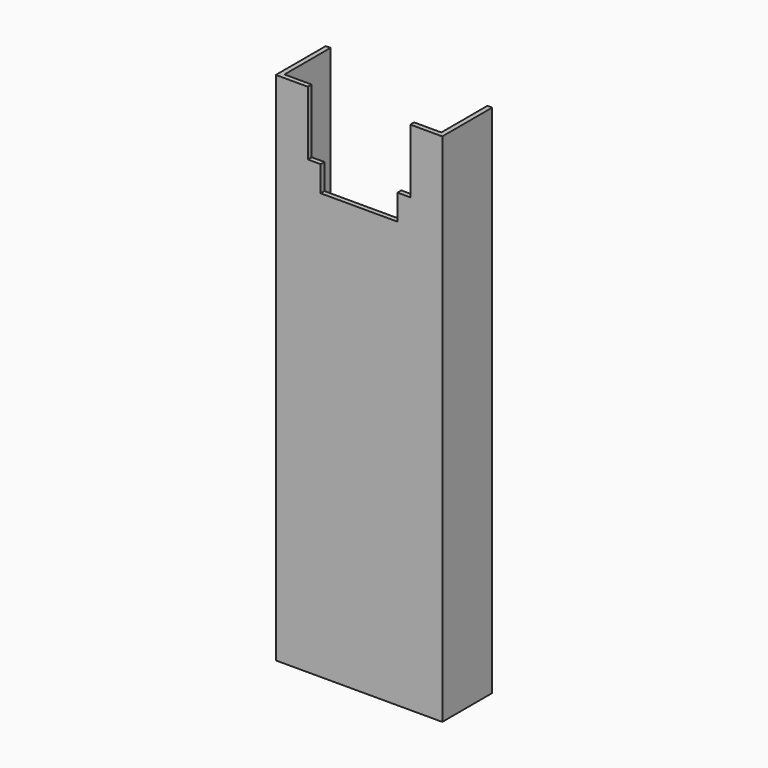
from build123d import *

# Parameters (mm, degrees)
F1_DEPTH = 1022.35
F3_DEPTH = 25.4


with BuildPart() as f1:
    # F0 (on Top) → F1 (new body, symmetric)
    with BuildSketch(Plane.XY):
        Polygon((311.15, 247.65), (311.15, 19.05), (-311.15, 19.05), (-311.15, 247.65), (-330.2, 247.65), (-330.2, 0), (330.2, 0), (330.2, 247.65), align=None)
    extrude(amount=F1_DEPTH, both=True)

    # F2 (on face) → F3 (cut)
    with BuildSketch(Plane.XZ):
        Polygon((203.2, 1022.35), (-203.2, 1022.35), (-203.2, 768.35), (-152.4, 768.35), (-152.4, 666.75), (152.4, 666.75), (152.4, 768.35), (203.2, 768.35), align=None)
    extrude(amount=-F3_DEPTH, mode=Mode.SUBTRACT)


solid = f1.part
